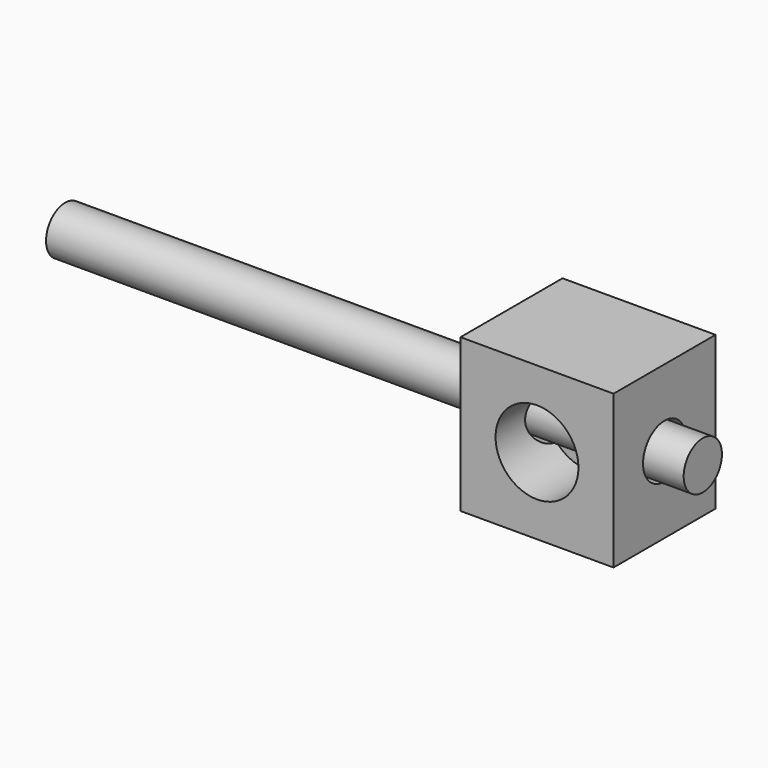
from build123d import *

# Parameters (mm, degrees)
F0_W     = 60.96
F0_H     = 60.96
F1_DEPTH = 50.8
F2_R     = 16.51
F3_DEPTH = 25.4
F4_R     = 10.699579
F5_DEPTH = 60.96
F7_R     = 9.525
F8_DEPTH = 254


with BuildPart() as f1:
    # F0 (on Front) → F1 (new body)
    with BuildSketch(Plane.XZ):
        with Locations((30.48, 30.48)):
            Rectangle(F0_W, F0_H)
    extrude(amount=F1_DEPTH)

    # F2 (on face) → F3 (cut)
    with BuildSketch(Plane.XZ.offset(50.8)):
        with Locations((30.48, 30.48)):
            Circle(F2_R)
    extrude(amount=-F3_DEPTH, mode=Mode.SUBTRACT)

    # F4 (on face) → F5 (cut)
    with BuildSketch(Plane(origin=(0, 0, 0), x_dir=(0, -1, 0), z_dir=(-1, 0, 0))):
        with Locations((25.4, 30.48)):
            Circle(F4_R)
    extrude(amount=-F5_DEPTH, mode=Mode.SUBTRACT)


with BuildPart() as f8:
    # F7 (on offset) → F8 (new body)
    with BuildSketch(Plane.YZ.offset(76.2)):
        with Locations((-25.4, 30.48)):
            Circle(F7_R)
    extrude(amount=-F8_DEPTH)


solid = Compound([f1.part, f8.part])
